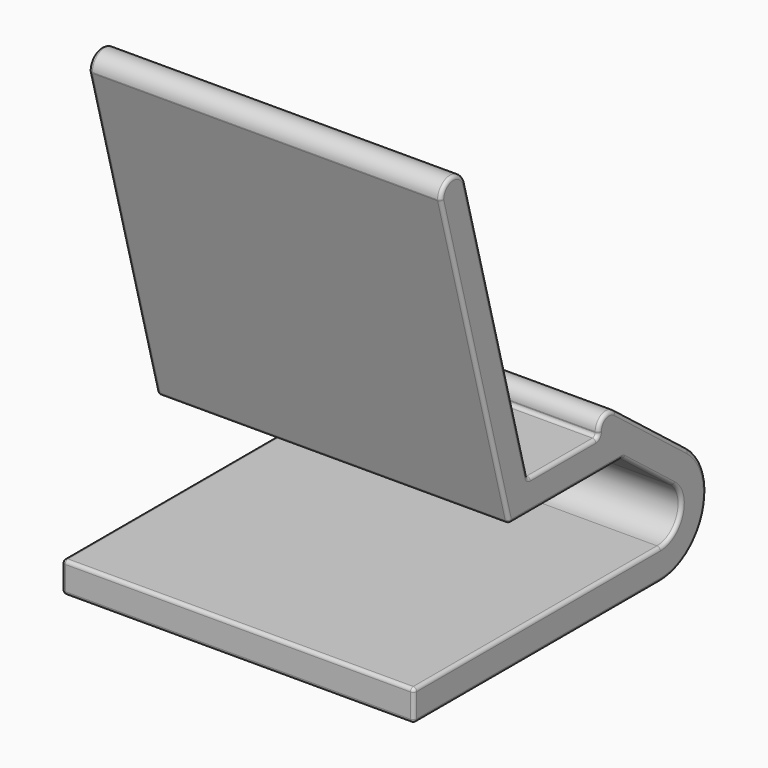
from build123d import *

# Parameters (mm, degrees)
F1_DEPTH = 50.8
F2_W     = 13
F2_H     = 8
F3_DEPTH = 25.4
F4_R     = 1


with BuildPart() as f1:
    # F0 (on Right) → F1 (new body, symmetric)
    with BuildSketch(Plane.YZ):
        with BuildLine():
            Line((31.6255345498, -36.1062373339), (-57.2744654502, -36.1062373339))
            Line((-57.2744654502, -36.1062373339), (-57.2744654502, -44.9962373339))
            Line((-57.2744654502, -44.9962373339), (31.6255345498, -44.9962373339))
            ThreePointArc((31.6255345498, -44.9962373339), (47.2442424157, -33.8375049034), (41.7502934691, -15.4451730819))
            Line((41.7502934691, -15.4451730819), (15.4794602749, 4.9508503992))
            ThreePointArc((15.4794602749, 4.9508503992), (11.4675520645, 5.3632229176), (9.3329774473, 1.9413740333))
            Line((9.3329774473, 1.9413740333), (9.3329774473, 0.7237626661))
            Line((9.3329774473, 0.7237626661), (-16.0670225527, 0.7237626661))
            Line((-16.0670225527, 0.7237626661), (-38.6618785789, 85.0489133456))
            ThreePointArc((-38.6618785789, 85.0489133456), (-43.634838868, 88.3551528409), (-47.5410735218, 83.8381976201))
            Line((-47.5410735218, 83.8381976201), (-22.8885594758, -8.1662373339))
            Line((-22.8885594758, -8.1662373339), (17.8782219758, -8.1662373339))
            Line((17.8782219758, -8.1662373339), (36.2985002049, -22.4672846022))
            ThreePointArc((36.2985002049, -22.4672846022), (38.8341689494, -30.9560531352), (31.6255345498, -36.1062373339))
        make_face()
    extrude(amount=F1_DEPTH, both=True)

    # F2 (on face) → F3 (cut)
    with BuildSketch(Plane.XY.offset(0.7237626661)):
        Rectangle(F2_W, F2_H)
    extrude(amount=-F3_DEPTH, mode=Mode.SUBTRACT)

    # F4
    f4_edges = [f1.edges().sort_by_distance(p)[0] for p in [
        (0, 41.750293, -15.445173),
        (-50.8, 28.614877, -5.247161),
        (0, 15.47946, 4.95085),
        (50.8, 28.614877, -5.247161),
        (50.8, -27.364451, 42.886338),
        (50.8, -35.214816, 37.83598),
        (0, -57.274465, -36.106237),
        (-50.8, -57.274465, -40.551237),
        (0, -57.274465, -44.996237),
        (50.8, -57.274465, -40.551237),
        (50.8, 38.834169, -30.956053),
        (-50.8, 47.244242, -33.837505),
        (-50.8, -12.824465, -44.996237),
        (0, 31.625535, -44.996237),
        (50.8, -12.824465, -44.996237),
        (50.8, -43.634839, 88.355153),
        (-50.8, -35.214816, 37.83598),
        (0, -22.888559, -8.166237),
        (0, -47.541074, 83.838198),
        (50.8, 47.244242, -33.837505),
        (50.8, -2.505169, -8.166237),
        (50.8, 27.088361, -15.316761),
        (50.8, -12.824465, -36.106237),
        (50.8, 11.467552, 5.363223),
        (50.8, 9.332977, 1.332568),
        (50.8, -3.367023, 0.723763),
        (0, -16.067023, 0.723763),
        (-50.8, -27.364451, 42.886338),
        (0, -38.661879, 85.048913),
        (0, 36.2985, -22.467285),
        (-50.8, 38.834169, -30.956053),
        (0, 31.625535, -36.106237),
        (0, 9.332977, 0.723763),
        (-50.8, -3.367023, 0.723763),
        (0, -4, 0.723763),
        (6.5, 0, 0.723763),
        (0, 4, 0.723763),
        (-6.5, 0, 0.723763),
        (-50.8, -12.824465, -36.106237),
        (-50.8, -2.505169, -8.166237),
        (-50.8, 27.088361, -15.316761),
        (-50.8, 11.467552, 5.363223),
        (-50.8, 9.332977, 1.332568),
        (-50.8, -43.634839, 88.355153),
        (0, 17.878222, -8.166237),
        (0, 9.332977, 1.941374),
        (6.5, 4, -3.721237),
        (6.5, 0, -8.166237),
        (0, -4, -8.166237),
        (-6.5, 0, -8.166237),
        (0, 4, -8.166237),
        (6.5, -4, -3.721237),
        (-6.5, 4, -3.721237),
        (-6.5, -4, -3.721237),
    ]]
    fillet(f4_edges, radius=F4_R)


solid = f1.part
